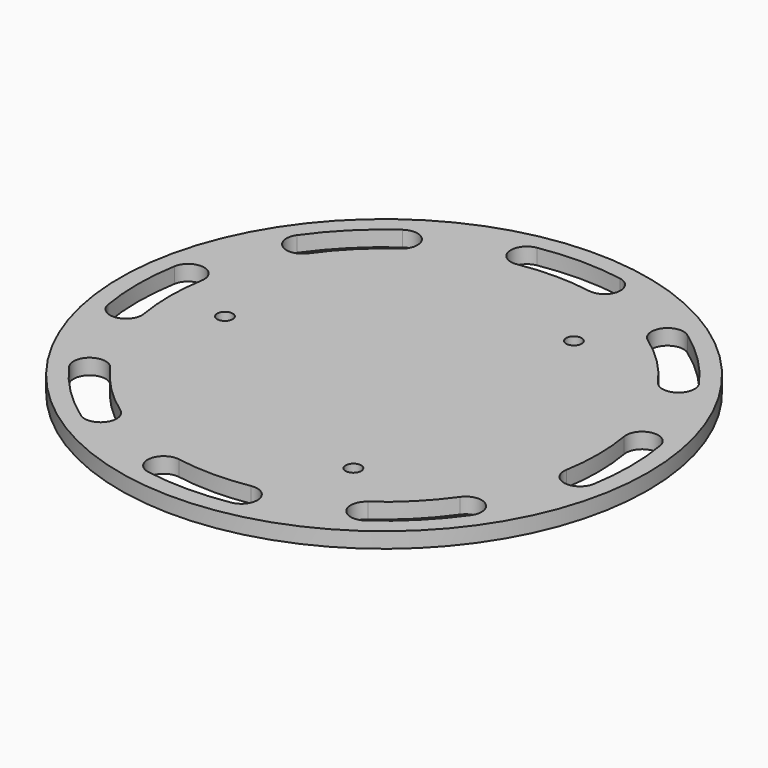
from build123d import *

# Parameters (mm, degrees)
SKETCH015_R        = 51
SKETCH015_R_2      = 1.5
PAD013_DEPTH       = 3
POCKET_DEPTH       = 291.562952
POLARPATTERN_COUNT = 8


with BuildPart() as part:
    # Sketch015 → Pad013 (new body)
    with BuildSketch(Plane.XY):
        Circle(SKETCH015_R)
        with Locations((15.375, 26.630281)):
            Circle(SKETCH015_R_2, mode=Mode.SUBTRACT)
        with Locations((-30.75, 0)):
            Circle(SKETCH015_R_2, mode=Mode.SUBTRACT)
        with Locations((15.375, -26.630281)):
            Circle(SKETCH015_R_2, mode=Mode.SUBTRACT)
    extrude(amount=-PAD013_DEPTH)

    # Sketch017 (on Face6 of Pad013) → Pocket (cut, through all)
    with BuildSketch(Plane(origin=(0, 0, -3), x_dir=(1, 0, 0), z_dir=(0, 0, -1))):
        with BuildLine():
            ThreePointArc((8.022472, 46.919079), (0, 47.6), (-8.022472, 46.919079))
            ThreePointArc((-8.022472, 46.919079), (-10.555654, 43.340952), (-6.977528, 40.80777))
            ThreePointArc((6.977528, 40.80777), (0, 41.4), (-6.977528, 40.80777))
            ThreePointArc((6.977528, 40.80777), (10.555654, 43.340952), (8.022472, 46.919079))
        make_face()
    pocket = extrude(amount=-POCKET_DEPTH, mode=Mode.SUBTRACT)

    # PolarPattern: Pocket ×8 about axis
    polarpattern_axis = Axis((0, 0, -3), (0, 0, -1))
    for i in range(1, POLARPATTERN_COUNT):
        add(pocket.rotate(polarpattern_axis, i * 360 / POLARPATTERN_COUNT), mode=Mode.SUBTRACT)


solid = part.part
